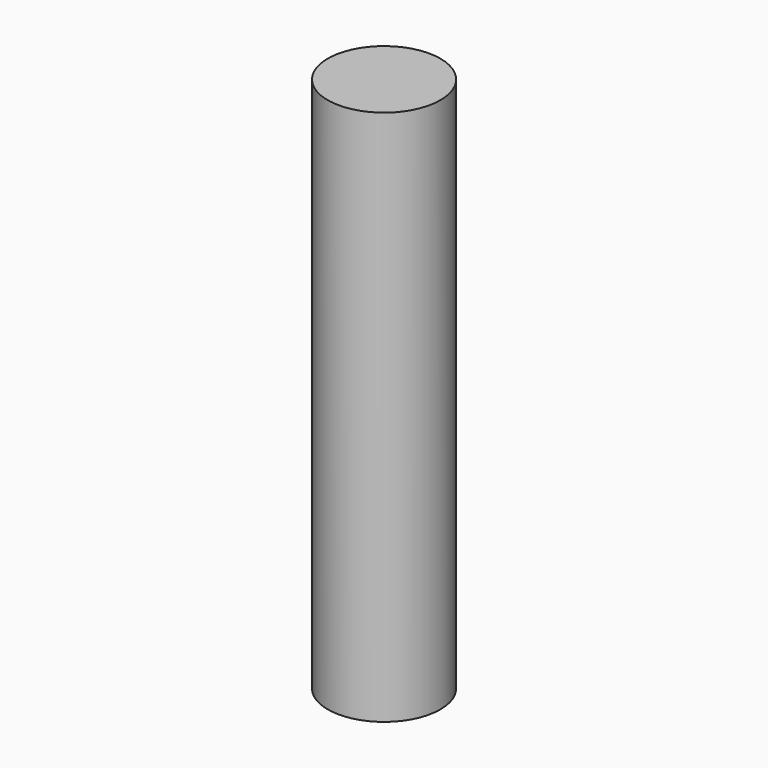
from build123d import *

# Parameters (mm, degrees)
CYLINDER_R     = 1.5748
CYLINDER_DEPTH = 15


with BuildPart() as part:
    # Cylinder → Cylinder (new body)
    with BuildSketch(Plane.XY.offset(-2.5)):
        Circle(CYLINDER_R)
    extrude(amount=CYLINDER_DEPTH)


solid = part.part
